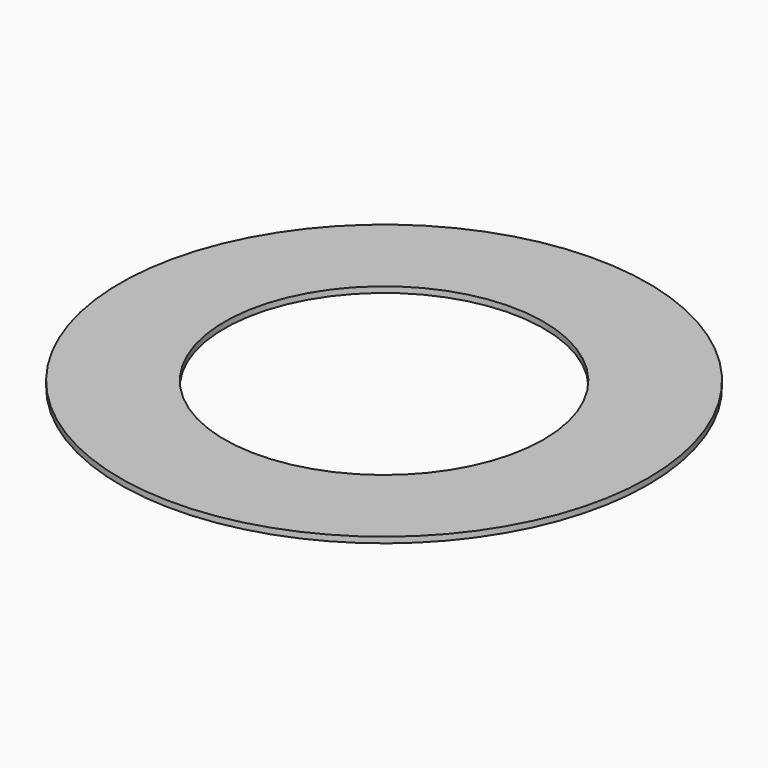
from build123d import *

# Parameters (mm, degrees)
CYLINDER018_R     = 13.6
CYLINDER018_DEPTH = 0.5
CYLINDER019_R     = 22.5
CYLINDER019_DEPTH = 0.5


with BuildPart() as cylinder018:
    # Cylinder018 → Cylinder018 (new body)
    with BuildSketch(Plane.XY):
        Circle(CYLINDER018_R)
    extrude(amount=CYLINDER018_DEPTH)


with BuildPart() as large_blue:
    # Cylinder019 → Cylinder019 (new body)
    with BuildSketch(Plane.XY):
        Circle(CYLINDER019_R)
    extrude(amount=CYLINDER019_DEPTH)

    # Cut007: cut Cylinder018
    add(cylinder018.part, mode=Mode.SUBTRACT)


solid = large_blue.part
